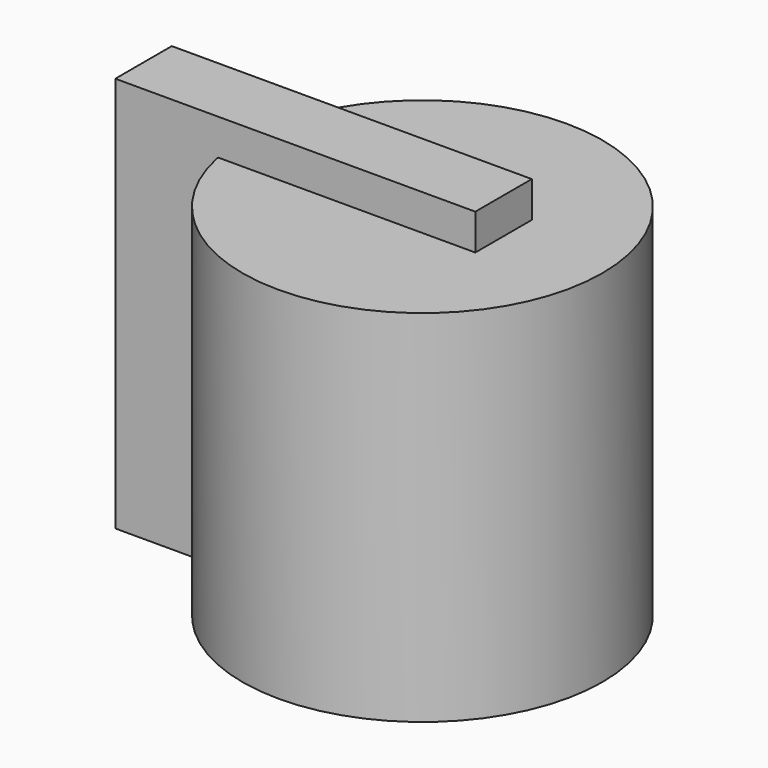
from build123d import *

# Parameters (mm, degrees)
F0_R     = 12.5
F3_DEPTH = 25
F1_W     = 11.2541733542
F1_H     = 4.901913926
F2_W     = 11.2541733542
F2_H     = 4.901913926
F4_DEPTH = 27.4987090379
F5_DEPTH = 25


with BuildPart() as f3:
    # F0 (on Top) → F3 (new body)
    with BuildSketch(Plane.XY):
        Circle(F0_R)
    extrude(amount=F3_DEPTH)


with BuildPart() as f3b:
    # F1 (on face) → F3, piece 2 (new body)
    with BuildSketch(Plane.XY):
        with Locations((-0.0226280536, 0.0370293856)):
            Rectangle(F1_W, F1_H)
    extrude(amount=F3_DEPTH)


with BuildPart() as f4:
    # F2 (on face) → F4 (new body)
    with BuildSketch(Plane.XY):
        with Locations((-0.0226280536, 0.0370293856)):
            Rectangle(F2_W, F2_H)
    extrude(amount=F4_DEPTH)


with BuildPart() as f5:
    # F5 (new): a face of the model
    f5_faces = [f4.part.faces().sort_by_distance(p)[0] for p in [
        (5.6044586236, 0.0370293856, 13.7493545189),
    ]]
    extrude(f5_faces, amount=-F5_DEPTH)


solid = Compound([f3.part, f3b.part, f4.part, f5.part])
